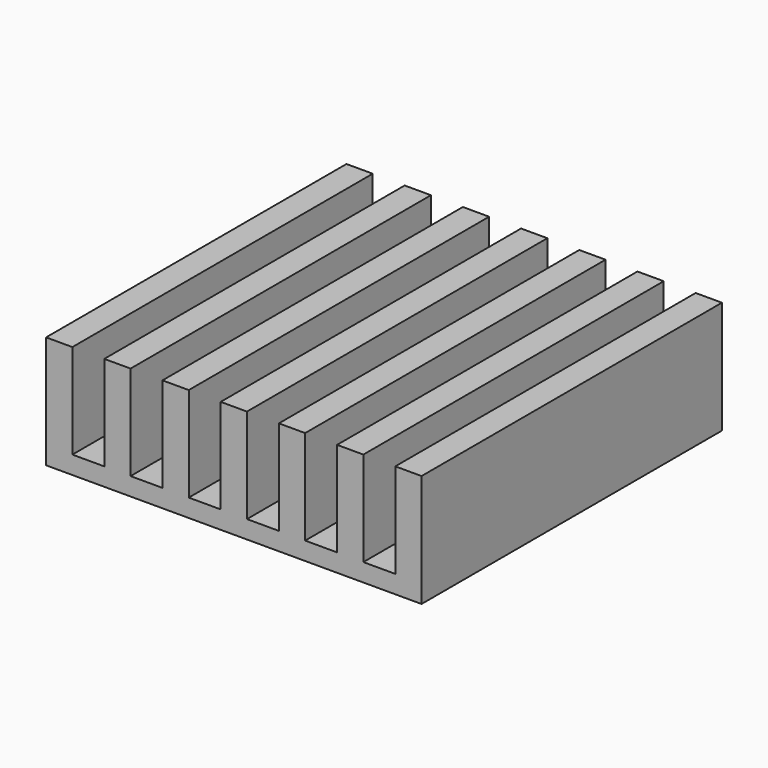
from build123d import *

# Parameters (mm, degrees)
PAD_DEPTH = 20


with BuildPart() as part:
    # Sketch001 → Pad (new body)
    with BuildSketch(Plane.XZ):
        Polygon((0, 0), (0, 6), (1.4, 6), (1.4, 0.957608), (3.1, 0.957608), (3.1, 6), (4.5, 6), (4.5, 0.957608), (6.2, 0.957608), (6.2, 6), (7.6, 6), (7.6, 0.957608), (9.3, 0.957608), (9.3, 6), (10.7, 6), (10.7, 0.957608), (12.4, 0.957608), (12.4, 6), (13.8, 6), (13.8, 0.957608), (15.5, 0.957608), (15.5, 6), (16.9, 6), (16.9, 0.957608), (18.6, 0.957608), (18.6, 6), (20, 6), (20, 0), align=None)
    extrude(amount=PAD_DEPTH)


solid = part.part
